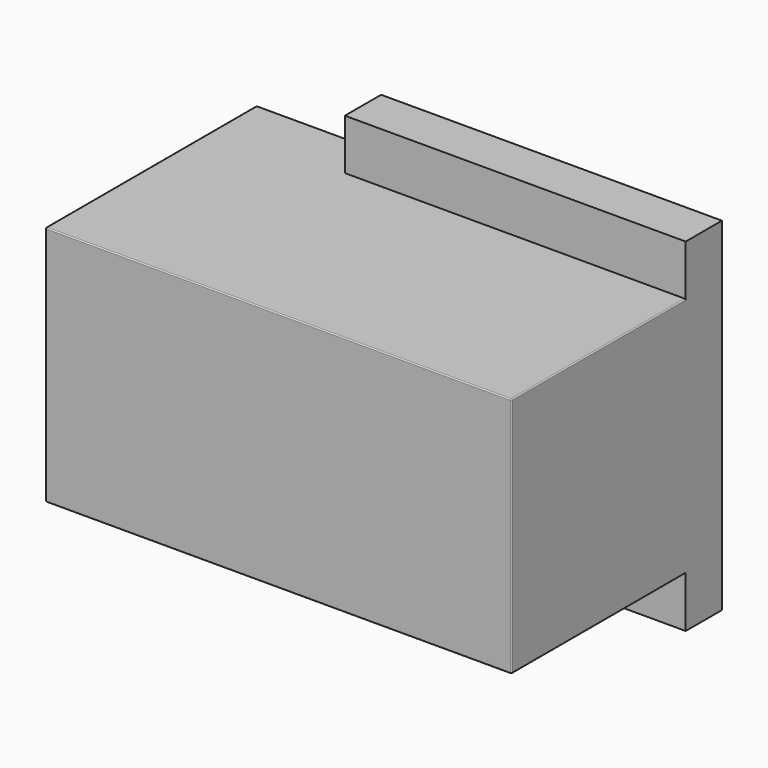
from build123d import *

# Parameters (mm, degrees)
F0_W     = 501.65
F0_H     = 74.422
F0_H_2   = 74.676
F1_DEPTH = 66.675
F2_DEPTH = 387.35
F3_R     = 1.5875


with BuildPart() as f1:
    # F0 (on Front) → F1 (new body)
    with BuildSketch(Plane.XZ):
        with Locations((-66.268259, 59.105321)):
            Rectangle(F0_W, F0_H)
        Polygon((-317.093259, 21.894321), (-501.243259, 21.894321), (-501.243259, -333.705679), (-317.093259, -333.705679), (184.556741, -333.705679), (184.556741, 21.894321), align=None)
        with Locations((-66.268259, -371.043679)):
            Rectangle(F0_W, F0_H_2)
    extrude(amount=F1_DEPTH)

    # F0 (on Front) → F2 (join)
    with BuildSketch(Plane.XZ):
        Polygon((-317.093259, 21.894321), (-501.243259, 21.894321), (-501.243259, -333.705679), (-317.093259, -333.705679), (184.556741, -333.705679), (184.556741, 21.894321), align=None)
    extrude(amount=F2_DEPTH)

    # F3
    f3_edges = [f1.edges().sort_by_distance(p)[0] for p in [
        (-158.343259, -387.35, 21.894321),
        (-501.243259, -193.675, 21.894321),
        (184.556741, -227.0125, 21.894321),
        (184.556741, -387.35, -155.905679),
        (184.556741, -227.0125, -333.705679),
        (-158.343259, -387.35, -333.705679),
        (-501.243259, -387.35, -155.905679),
        (-501.243259, -193.675, -333.705679),
    ]]
    fillet(f3_edges, radius=F3_R)


solid = f1.part
